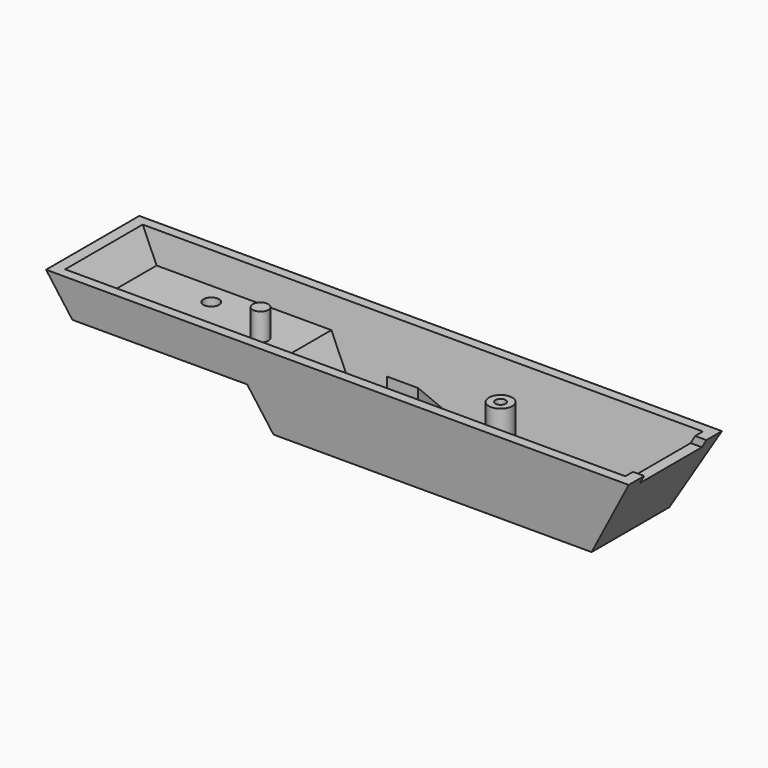
from build123d import *

# Parameters (mm, degrees)
PAD001_DEPTH      = 15
POCKET_DEPTH      = 75.001
POCKET_DEPTH_BACK = 75.001
THICKNESS_T       = -2.5
SKETCH006_R       = 3
PAD005_DEPTH      = 15.6
SKETCH007_R       = 1.3
POCKET001_DEPTH   = 15
SKETCH018_R       = 4
POCKET008_DEPTH   = 2.5
SKETCH020_R       = 2
POCKET009_DEPTH   = 12.501
SKETCH021_R       = 2
PAD008_DEPTH      = 7
SKETCH027_R       = 1.5
POCKET014_DEPTH   = 2.501
CHAMFER001_SIZE   = 1
SKETCH028_W       = 10
SKETCH028_H       = 20
POCKET015_DEPTH   = 2
SKETCH032_W       = 8
SKETCH032_H       = 8
PAD011_DEPTH      = 15
POCKET018_DEPTH   = 8


with BuildPart() as part:
    # Sketch001 → Pad001 (new body, symmetric)
    with BuildSketch(Plane.XZ):
        Polygon((-75, 0), (-69.2264973081, -10), (-24.2264973081, -10), (-18.4529946162, -20), (63.4529946162, -20), (75, 0), align=None)
    extrude(amount=PAD001_DEPTH, both=True)

    # Sketch002 → Pocket (cut, two sides)
    with BuildSketch(Plane.YZ) as pocket_sk:
        Polygon((-15, 0), (-12.5, -20), (-15, -20), align=None)
        Polygon((15, -20), (15, 0), (12.5, -20), align=None)
    extrude(amount=-POCKET_DEPTH, mode=Mode.SUBTRACT)
    extrude(pocket_sk.sketch, amount=POCKET_DEPTH_BACK, mode=Mode.SUBTRACT)

    # Thickness
    thickness_openings = [part.faces().sort_by_distance(p)[0] for p in [
        (0, 0, 0),
    ]]
    offset(amount=THICKNESS_T, openings=thickness_openings, kind=Kind.INTERSECTION)

    # Sketch006 (on Face14 of Thickness) → Pad005 (join)
    with BuildSketch(Plane.XY.offset(-17.5)):
        with Locations((30.0096189432, 0)):
            Circle(SKETCH006_R)
    extrude(amount=PAD005_DEPTH)

    # Sketch007 (on Face17 of Pad005) → Pocket001 (cut)
    with BuildSketch(Plane.XY.offset(-1.9)):
        with Locations((30.0096189432, 0)):
            Circle(SKETCH007_R)
    extrude(amount=-POCKET001_DEPTH, mode=Mode.SUBTRACT)

    # Sketch018 (on Face8 of Pocket001) → Pocket008 (cut)
    with BuildSketch(Plane(origin=(-22.5, 0, -12.9903810568), x_dir=(0, -1, 0), z_dir=(-0.8660254038, 0, -0.5))):
        with Locations((0, -2)):
            Circle(SKETCH018_R)
    extrude(amount=-POCKET008_DEPTH, mode=Mode.SUBTRACT)

    # Sketch020 (on Face14 of Pocket008) → Pocket009 (cut, through all)
    with BuildSketch(Plane.XY.offset(-7.5)):
        with Locations((-49.2831216351, 6)):
            Circle(SKETCH020_R)
        with Locations((-49.2831216351, -6)):
            Circle(SKETCH020_R)
    extrude(amount=-POCKET009_DEPTH, mode=Mode.SUBTRACT)

    # Sketch021 (on Face16 of Pocket009) → Pad008 (join)
    with BuildSketch(Plane.XY.offset(-7.5)):
        with Locations((-31.7831216351, 0)):
            Circle(SKETCH021_R)
    extrude(amount=PAD008_DEPTH)

    # Sketch027 (on Face18 of Pad008) → Pocket014 (cut, through all)
    with BuildSketch(Plane.XY.offset(-17.5)):
        with Locations((-14.5, 7.5)):
            Circle(SKETCH027_R)
        with Locations((-14.5, -7.5)):
            Circle(SKETCH027_R)
    extrude(amount=-POCKET014_DEPTH, mode=Mode.SUBTRACT)

    # Chamfer001
    chamfer001_edges = [part.edges().sort_by_distance(p)[0] for p in [
        (-16, 7.5, -17.5),
        (-16, -7.5, -17.5),
    ]]
    chamfer(chamfer001_edges, length=CHAMFER001_SIZE)

    # Sketch028 (on Face18 of Chamfer001) → Pocket015 (cut)
    with BuildSketch(Plane.XY):
        with Locations((70, 0)):
            Rectangle(SKETCH028_W, SKETCH028_H)
    extrude(amount=-POCKET015_DEPTH, mode=Mode.SUBTRACT)

    # Sketch032 (on Face4 of Pocket015) → Pad011 (join)
    with BuildSketch(Plane.XY.offset(-17.5)):
        with Locations((8, 0)):
            Rectangle(SKETCH032_W, SKETCH032_H)
    extrude(amount=PAD011_DEPTH)

    # Sketch033 (on Face17 of Pad011) → Pocket018 (cut)
    with BuildSketch(Plane.YZ.offset(12)):
        Polygon((4, -11), (-4, -3), (-4, -2.5), (4, -2.5), align=None)
    extrude(amount=-POCKET018_DEPTH, mode=Mode.SUBTRACT)


solid = part.part
